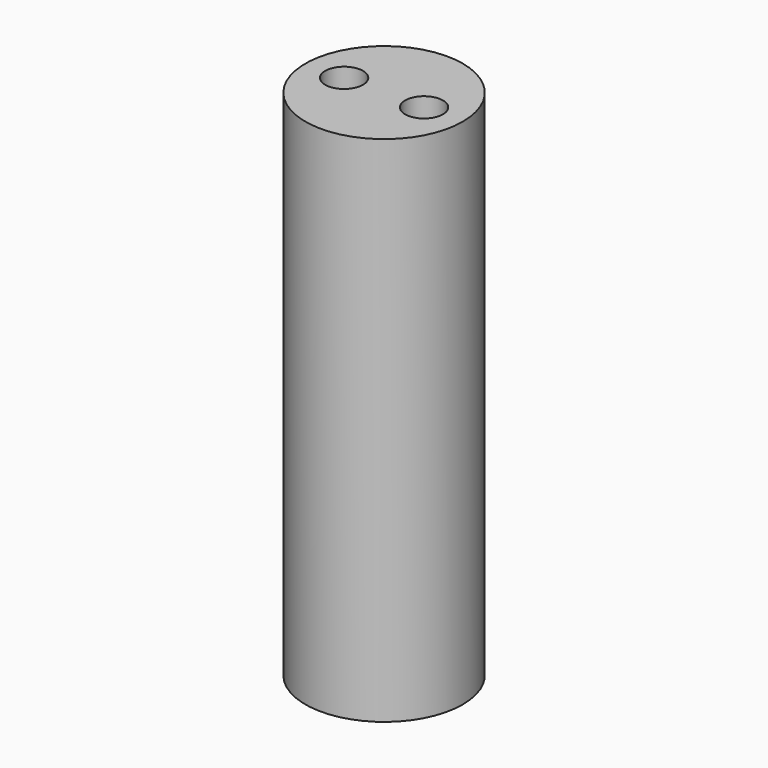
from build123d import *

# Parameters (mm, degrees)
SKETCH_R     = 2.5
PAD_DEPTH    = 16.3
SKETCH001_R  = 0.6
POCKET_DEPTH = 16.301


with BuildPart() as part:
    # Sketch → Pad (new body)
    with BuildSketch(Plane.XY):
        Circle(SKETCH_R)
    extrude(amount=PAD_DEPTH)

    # Sketch001 (on Face3 of Pad) → Pocket (cut, through all)
    with BuildSketch(Plane.XY.offset(16.3)):
        with Locations((-1.27, 0)):
            Circle(SKETCH001_R)
        with Locations((1.27, 0)):
            Circle(SKETCH001_R)
    extrude(amount=-POCKET_DEPTH, mode=Mode.SUBTRACT)


solid = part.part
